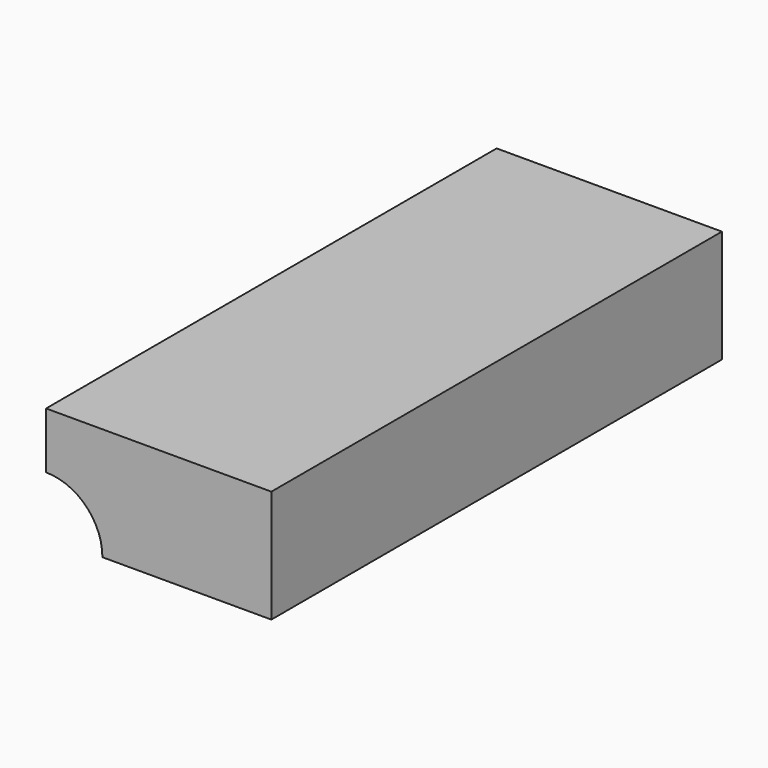
from build123d import *

# Parameters (mm, degrees)
BOX_W     = 20
BOX_H     = 50
BOX_DEPTH = 10


with BuildPart() as sphere:
    # Sphere → Sphere (revolve)
    with BuildSketch(Plane.XZ):
        with BuildLine():
            ThreePointArc((0, -5), (5, 0), (0, 5))
            Line((0, 5), (0, -5))
        make_face()
    revolve(axis=Axis((0, 0, 0), (0, 0, 1)))


with BuildPart() as cut:
    # Box → Box (new body)
    with BuildSketch(Plane.XY):
        with Locations((10, 25)):
            Rectangle(BOX_W, BOX_H)
    extrude(amount=BOX_DEPTH)

    # Cut: cut Sphere
    add(sphere.part, mode=Mode.SUBTRACT)


solid = cut.part
